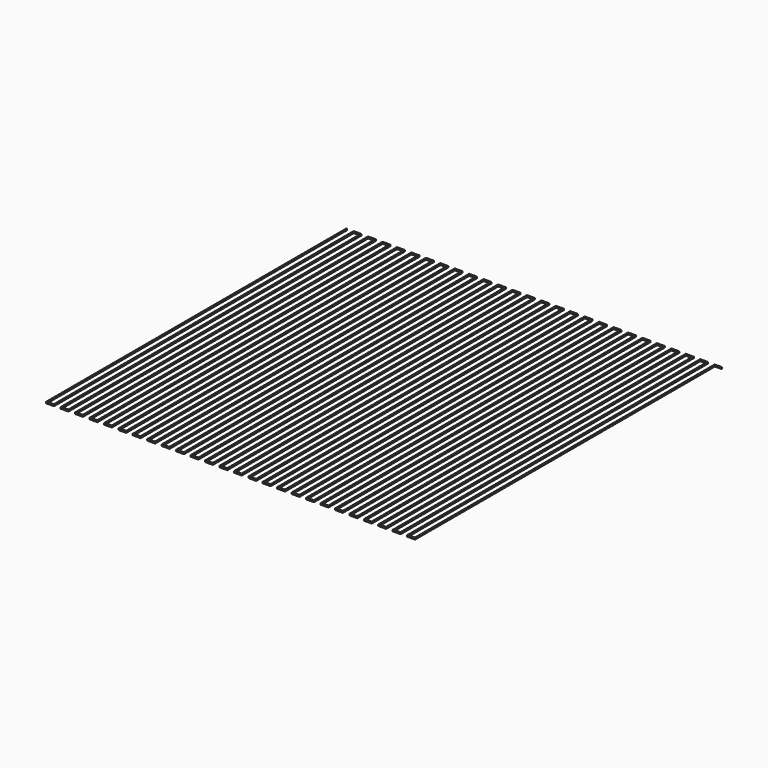
from build123d import *

# Parameters (mm, degrees)
F0_W     = 0.2
F0_H     = 103.8
F0_W_2   = 1.8
F0_H_2   = 0.2
F1_DEPTH = 0.4


with BuildPart() as f1:
    # F0 (on Top) → F1 (new body)
    with BuildSketch(Plane.XY):
        with Locations((-50.492799, -5.833955)):
            Rectangle(F0_W, F0_H)
        with Locations((52.507201, 45.966045)):
            Rectangle(F0_W_2, F0_H_2)
        with Locations((-50.492799, -57.833955)):
            Rectangle(F0_W, F0_H_2)
        with Locations((-49.492799, -57.833955)):
            Rectangle(F0_W_2, F0_H_2)
        Polygon((-48.592799, 45.866045), (-48.592799, -57.733955), (-48.592799, -57.933955), (-48.392799, -57.933955), (-48.392799, 45.866045), align=None)
        with Locations((-48.492799, 45.966045)):
            Rectangle(F0_W, F0_H_2)
        with Locations((-47.492799, 45.966045)):
            Rectangle(F0_W_2, F0_H_2)
        Polygon((-46.592799, 46.066045), (-46.592799, 45.866045), (-46.592799, -57.733955), (-46.392799, -57.733955), (-46.392799, 46.066045), align=None)
        with Locations((-46.492799, -57.833955)):
            Rectangle(F0_W, F0_H_2)
        with Locations((-45.492799, -57.833955)):
            Rectangle(F0_W_2, F0_H_2)
        Polygon((-44.592799, 45.866045), (-44.592799, -57.733955), (-44.592799, -57.933955), (-44.392799, -57.933955), (-44.392799, 45.866045), align=None)
        with Locations((-44.492799, 45.966045)):
            Rectangle(F0_W, F0_H_2)
        with Locations((-43.492799, 45.966045)):
            Rectangle(F0_W_2, F0_H_2)
        Polygon((-42.592799, 46.066045), (-42.592799, 45.866045), (-42.592799, -57.733955), (-42.392799, -57.733955), (-42.392799, 46.066045), align=None)
        with Locations((-42.492799, -57.833955)):
            Rectangle(F0_W, F0_H_2)
        with Locations((-41.492799, -57.833955)):
            Rectangle(F0_W_2, F0_H_2)
        Polygon((-40.592799, 45.866045), (-40.592799, -57.733955), (-40.592799, -57.933955), (-40.392799, -57.933955), (-40.392799, 45.866045), align=None)
        with Locations((-40.492799, 45.966045)):
            Rectangle(F0_W, F0_H_2)
        with Locations((-39.492799, 45.966045)):
            Rectangle(F0_W_2, F0_H_2)
        Polygon((-38.592799, 46.066045), (-38.592799, 45.866045), (-38.592799, -57.733955), (-38.392799, -57.733955), (-38.392799, 46.066045), align=None)
        with Locations((-38.492799, -57.833955)):
            Rectangle(F0_W, F0_H_2)
        with Locations((-37.492799, -57.833955)):
            Rectangle(F0_W_2, F0_H_2)
        Polygon((-36.592799, 45.866045), (-36.592799, -57.733955), (-36.592799, -57.933955), (-36.392799, -57.933955), (-36.392799, 45.866045), align=None)
        with Locations((-36.492799, 45.966045)):
            Rectangle(F0_W, F0_H_2)
        with Locations((-35.492799, 45.966045)):
            Rectangle(F0_W_2, F0_H_2)
        Polygon((-34.592799, 46.066045), (-34.592799, 45.866045), (-34.592799, -57.733955), (-34.392799, -57.733955), (-34.392799, 46.066045), align=None)
        with Locations((-34.492799, -57.833955)):
            Rectangle(F0_W, F0_H_2)
        with Locations((-33.492799, -57.833955)):
            Rectangle(F0_W_2, F0_H_2)
        Polygon((-32.592799, 45.866045), (-32.592799, -57.733955), (-32.592799, -57.933955), (-32.392799, -57.933955), (-32.392799, 45.866045), align=None)
        with Locations((-32.492799, 45.966045)):
            Rectangle(F0_W, F0_H_2)
        with Locations((-31.492799, 45.966045)):
            Rectangle(F0_W_2, F0_H_2)
        Polygon((-30.592799, 46.066045), (-30.592799, 45.866045), (-30.592799, -57.733955), (-30.392799, -57.733955), (-30.392799, 46.066045), align=None)
        with Locations((-30.492799, -57.833955)):
            Rectangle(F0_W, F0_H_2)
        with Locations((-29.492799, -57.833955)):
            Rectangle(F0_W_2, F0_H_2)
        Polygon((-28.592799, 45.866045), (-28.592799, -57.733955), (-28.592799, -57.933955), (-28.392799, -57.933955), (-28.392799, 45.866045), align=None)
        with Locations((-28.492799, 45.966045)):
            Rectangle(F0_W, F0_H_2)
        with Locations((-27.492799, 45.966045)):
            Rectangle(F0_W_2, F0_H_2)
        Polygon((-26.592799, 46.066045), (-26.592799, 45.866045), (-26.592799, -57.733955), (-26.392799, -57.733955), (-26.392799, 46.066045), align=None)
        with Locations((-26.492799, -57.833955)):
            Rectangle(F0_W, F0_H_2)
        with Locations((-25.492799, -57.833955)):
            Rectangle(F0_W_2, F0_H_2)
        Polygon((-24.592799, 45.866045), (-24.592799, -57.733955), (-24.592799, -57.933955), (-24.392799, -57.933955), (-24.392799, 45.866045), align=None)
        with Locations((-24.492799, 45.966045)):
            Rectangle(F0_W, F0_H_2)
        with Locations((-23.492799, 45.966045)):
            Rectangle(F0_W_2, F0_H_2)
        Polygon((-22.592799, 46.066045), (-22.592799, 45.866045), (-22.592799, -57.733955), (-22.392799, -57.733955), (-22.392799, 46.066045), align=None)
        with Locations((-22.492799, -57.833955)):
            Rectangle(F0_W, F0_H_2)
        with Locations((-21.492799, -57.833955)):
            Rectangle(F0_W_2, F0_H_2)
        Polygon((-20.592799, 45.866045), (-20.592799, -57.733955), (-20.592799, -57.933955), (-20.392799, -57.933955), (-20.392799, 45.866045), align=None)
        with Locations((-20.492799, 45.966045)):
            Rectangle(F0_W, F0_H_2)
        with Locations((-19.492799, 45.966045)):
            Rectangle(F0_W_2, F0_H_2)
        Polygon((-18.592799, 46.066045), (-18.592799, 45.866045), (-18.592799, -57.733955), (-18.392799, -57.733955), (-18.392799, 46.066045), align=None)
        with Locations((-18.492799, -57.833955)):
            Rectangle(F0_W, F0_H_2)
        with Locations((-17.492799, -57.833955)):
            Rectangle(F0_W_2, F0_H_2)
        Polygon((-16.592799, 45.866045), (-16.592799, -57.733955), (-16.592799, -57.933955), (-16.392799, -57.933955), (-16.392799, 45.866045), align=None)
        with Locations((-16.492799, 45.966045)):
            Rectangle(F0_W, F0_H_2)
        with Locations((-15.492799, 45.966045)):
            Rectangle(F0_W_2, F0_H_2)
        Polygon((-14.592799, 46.066045), (-14.592799, 45.866045), (-14.592799, -57.733955), (-14.392799, -57.733955), (-14.392799, 46.066045), align=None)
        with Locations((-14.492799, -57.833955)):
            Rectangle(F0_W, F0_H_2)
        with Locations((-13.492799, -57.833955)):
            Rectangle(F0_W_2, F0_H_2)
        Polygon((-12.592799, 45.866045), (-12.592799, -57.733955), (-12.592799, -57.933955), (-12.392799, -57.933955), (-12.392799, 45.866045), align=None)
        with Locations((-12.492799, 45.966045)):
            Rectangle(F0_W, F0_H_2)
        with Locations((-11.492799, 45.966045)):
            Rectangle(F0_W_2, F0_H_2)
        Polygon((-10.592799, 46.066045), (-10.592799, 45.866045), (-10.592799, -57.733955), (-10.392799, -57.733955), (-10.392799, 46.066045), align=None)
        with Locations((-10.492799, -57.833955)):
            Rectangle(F0_W, F0_H_2)
        with Locations((-9.492799, -57.833955)):
            Rectangle(F0_W_2, F0_H_2)
        Polygon((-8.592799, 45.866045), (-8.592799, -57.733955), (-8.592799, -57.933955), (-8.392799, -57.933955), (-8.392799, 45.866045), align=None)
        with Locations((-8.492799, 45.966045)):
            Rectangle(F0_W, F0_H_2)
        with Locations((-7.492799, 45.966045)):
            Rectangle(F0_W_2, F0_H_2)
        Polygon((-6.592799, 46.066045), (-6.592799, 45.866045), (-6.592799, -57.733955), (-6.392799, -57.733955), (-6.392799, 46.066045), align=None)
        with Locations((-6.492799, -57.833955)):
            Rectangle(F0_W, F0_H_2)
        with Locations((-5.492799, -57.833955)):
            Rectangle(F0_W_2, F0_H_2)
        Polygon((-4.592799, 45.866045), (-4.592799, -57.733955), (-4.592799, -57.933955), (-4.392799, -57.933955), (-4.392799, 45.866045), align=None)
        with Locations((-4.492799, 45.966045)):
            Rectangle(F0_W, F0_H_2)
        with Locations((-3.492799, 45.966045)):
            Rectangle(F0_W_2, F0_H_2)
        Polygon((-2.592799, 46.066045), (-2.592799, 45.866045), (-2.592799, -57.733955), (-2.392799, -57.733955), (-2.392799, 46.066045), align=None)
        with Locations((-2.492799, -57.833955)):
            Rectangle(F0_W, F0_H_2)
        with Locations((-1.492799, -57.833955)):
            Rectangle(F0_W_2, F0_H_2)
        Polygon((-0.592799, 45.866045), (-0.592799, -57.733955), (-0.592799, -57.933955), (-0.392799, -57.933955), (-0.392799, 45.866045), align=None)
        with Locations((-0.492799, 45.966045)):
            Rectangle(F0_W, F0_H_2)
        with Locations((0.507201, 45.966045)):
            Rectangle(F0_W_2, F0_H_2)
        Polygon((1.407201, 46.066045), (1.407201, 45.866045), (1.407201, -57.733955), (1.607201, -57.733955), (1.607201, 46.066045), align=None)
        with Locations((1.507201, -57.833955)):
            Rectangle(F0_W, F0_H_2)
        with Locations((2.507201, -57.833955)):
            Rectangle(F0_W_2, F0_H_2)
        Polygon((3.407201, 45.866045), (3.407201, -57.733955), (3.407201, -57.933955), (3.607201, -57.933955), (3.607201, 45.866045), align=None)
        with Locations((3.507201, 45.966045)):
            Rectangle(F0_W, F0_H_2)
        with Locations((4.507201, 45.966045)):
            Rectangle(F0_W_2, F0_H_2)
        Polygon((5.407201, 46.066045), (5.407201, 45.866045), (5.407201, -57.733955), (5.607201, -57.733955), (5.607201, 46.066045), align=None)
        with Locations((5.507201, -57.833955)):
            Rectangle(F0_W, F0_H_2)
        with Locations((6.507201, -57.833955)):
            Rectangle(F0_W_2, F0_H_2)
        Polygon((7.407201, 45.866045), (7.407201, -57.733955), (7.407201, -57.933955), (7.607201, -57.933955), (7.607201, 45.866045), align=None)
        with Locations((7.507201, 45.966045)):
            Rectangle(F0_W, F0_H_2)
        with Locations((8.507201, 45.966045)):
            Rectangle(F0_W_2, F0_H_2)
        Polygon((9.407201, 46.066045), (9.407201, 45.866045), (9.407201, -57.733955), (9.607201, -57.733955), (9.607201, 46.066045), align=None)
        with Locations((9.507201, -57.833955)):
            Rectangle(F0_W, F0_H_2)
        with Locations((10.507201, -57.833955)):
            Rectangle(F0_W_2, F0_H_2)
        Polygon((11.407201, 45.866045), (11.407201, -57.733955), (11.407201, -57.933955), (11.607201, -57.933955), (11.607201, 45.866045), align=None)
        with Locations((11.507201, 45.966045)):
            Rectangle(F0_W, F0_H_2)
        with Locations((12.507201, 45.966045)):
            Rectangle(F0_W_2, F0_H_2)
        Polygon((13.407201, 46.066045), (13.407201, 45.866045), (13.407201, -57.733955), (13.607201, -57.733955), (13.607201, 46.066045), align=None)
        with Locations((13.507201, -57.833955)):
            Rectangle(F0_W, F0_H_2)
        with Locations((14.507201, -57.833955)):
            Rectangle(F0_W_2, F0_H_2)
        Polygon((15.407201, 45.866045), (15.407201, -57.733955), (15.407201, -57.933955), (15.607201, -57.933955), (15.607201, 45.866045), align=None)
        with Locations((15.507201, 45.966045)):
            Rectangle(F0_W, F0_H_2)
        with Locations((16.507201, 45.966045)):
            Rectangle(F0_W_2, F0_H_2)
        Polygon((17.407201, 46.066045), (17.407201, 45.866045), (17.407201, -57.733955), (17.607201, -57.733955), (17.607201, 46.066045), align=None)
        with Locations((17.507201, -57.833955)):
            Rectangle(F0_W, F0_H_2)
        with Locations((18.507201, -57.833955)):
            Rectangle(F0_W_2, F0_H_2)
        Polygon((19.407201, 45.866045), (19.407201, -57.733955), (19.407201, -57.933955), (19.607201, -57.933955), (19.607201, 45.866045), align=None)
        with Locations((19.507201, 45.966045)):
            Rectangle(F0_W, F0_H_2)
        with Locations((20.507201, 45.966045)):
            Rectangle(F0_W_2, F0_H_2)
        Polygon((21.407201, 46.066045), (21.407201, 45.866045), (21.407201, -57.733955), (21.607201, -57.733955), (21.607201, 46.066045), align=None)
        with Locations((21.507201, -57.833955)):
            Rectangle(F0_W, F0_H_2)
        with Locations((22.507201, -57.833955)):
            Rectangle(F0_W_2, F0_H_2)
        Polygon((23.407201, 45.866045), (23.407201, -57.733955), (23.407201, -57.933955), (23.607201, -57.933955), (23.607201, 45.866045), align=None)
        with Locations((23.507201, 45.966045)):
            Rectangle(F0_W, F0_H_2)
        with Locations((24.507201, 45.966045)):
            Rectangle(F0_W_2, F0_H_2)
        Polygon((25.407201, 46.066045), (25.407201, 45.866045), (25.407201, -57.733955), (25.607201, -57.733955), (25.607201, 46.066045), align=None)
        with Locations((25.507201, -57.833955)):
            Rectangle(F0_W, F0_H_2)
        with Locations((26.507201, -57.833955)):
            Rectangle(F0_W_2, F0_H_2)
        Polygon((27.407201, 45.866045), (27.407201, -57.733955), (27.407201, -57.933955), (27.607201, -57.933955), (27.607201, 45.866045), align=None)
        with Locations((27.507201, 45.966045)):
            Rectangle(F0_W, F0_H_2)
        with Locations((28.507201, 45.966045)):
            Rectangle(F0_W_2, F0_H_2)
        Polygon((29.407201, 46.066045), (29.407201, 45.866045), (29.407201, -57.733955), (29.607201, -57.733955), (29.607201, 46.066045), align=None)
        with Locations((29.507201, -57.833955)):
            Rectangle(F0_W, F0_H_2)
        with Locations((30.507201, -57.833955)):
            Rectangle(F0_W_2, F0_H_2)
        Polygon((31.407201, 45.866045), (31.407201, -57.733955), (31.407201, -57.933955), (31.607201, -57.933955), (31.607201, 45.866045), align=None)
        with Locations((31.507201, 45.966045)):
            Rectangle(F0_W, F0_H_2)
        with Locations((32.507201, 45.966045)):
            Rectangle(F0_W_2, F0_H_2)
        Polygon((33.407201, 46.066045), (33.407201, 45.866045), (33.407201, -57.733955), (33.607201, -57.733955), (33.607201, 46.066045), align=None)
        with Locations((33.507201, -57.833955)):
            Rectangle(F0_W, F0_H_2)
        with Locations((34.507201, -57.833955)):
            Rectangle(F0_W_2, F0_H_2)
        Polygon((35.407201, 45.866045), (35.407201, -57.733955), (35.407201, -57.933955), (35.607201, -57.933955), (35.607201, 45.866045), align=None)
        with Locations((35.507201, 45.966045)):
            Rectangle(F0_W, F0_H_2)
        with Locations((36.507201, 45.966045)):
            Rectangle(F0_W_2, F0_H_2)
        Polygon((37.407201, 46.066045), (37.407201, 45.866045), (37.407201, -57.733955), (37.607201, -57.733955), (37.607201, 46.066045), align=None)
        with Locations((37.507201, -57.833955)):
            Rectangle(F0_W, F0_H_2)
        with Locations((38.507201, -57.833955)):
            Rectangle(F0_W_2, F0_H_2)
        Polygon((39.407201, 45.866045), (39.407201, -57.733955), (39.407201, -57.933955), (39.607201, -57.933955), (39.607201, 45.866045), align=None)
        with Locations((39.507201, 45.966045)):
            Rectangle(F0_W, F0_H_2)
        with Locations((40.507201, 45.966045)):
            Rectangle(F0_W_2, F0_H_2)
        Polygon((41.407201, 46.066045), (41.407201, 45.866045), (41.407201, -57.733955), (41.607201, -57.733955), (41.607201, 46.066045), align=None)
        with Locations((41.507201, -57.833955)):
            Rectangle(F0_W, F0_H_2)
        with Locations((42.507201, -57.833955)):
            Rectangle(F0_W_2, F0_H_2)
        Polygon((43.407201, 45.866045), (43.407201, -57.733955), (43.407201, -57.933955), (43.607201, -57.933955), (43.607201, 45.866045), align=None)
        with Locations((43.507201, 45.966045)):
            Rectangle(F0_W, F0_H_2)
        with Locations((44.507201, 45.966045)):
            Rectangle(F0_W_2, F0_H_2)
        Polygon((45.407201, 46.066045), (45.407201, 45.866045), (45.407201, -57.733955), (45.607201, -57.733955), (45.607201, 46.066045), align=None)
        with Locations((45.507201, -57.833955)):
            Rectangle(F0_W, F0_H_2)
        with Locations((46.507201, -57.833955)):
            Rectangle(F0_W_2, F0_H_2)
        Polygon((47.407201, 45.866045), (47.407201, -57.733955), (47.407201, -57.933955), (47.607201, -57.933955), (47.607201, 45.866045), align=None)
        with Locations((47.507201, 45.966045)):
            Rectangle(F0_W, F0_H_2)
        with Locations((48.507201, 45.966045)):
            Rectangle(F0_W_2, F0_H_2)
        Polygon((49.407201, 46.066045), (49.407201, 45.866045), (49.407201, -57.733955), (49.607201, -57.733955), (49.607201, 46.066045), align=None)
        with Locations((49.507201, -57.833955)):
            Rectangle(F0_W, F0_H_2)
        with Locations((50.507201, -57.833955)):
            Rectangle(F0_W_2, F0_H_2)
        Polygon((51.407201, 45.866045), (51.407201, -57.733955), (51.407201, -57.933955), (51.607201, -57.933955), (51.607201, 45.866045), align=None)
        with Locations((51.507201, 45.966045)):
            Rectangle(F0_W, F0_H_2)
    extrude(amount=F1_DEPTH)


solid = f1.part
